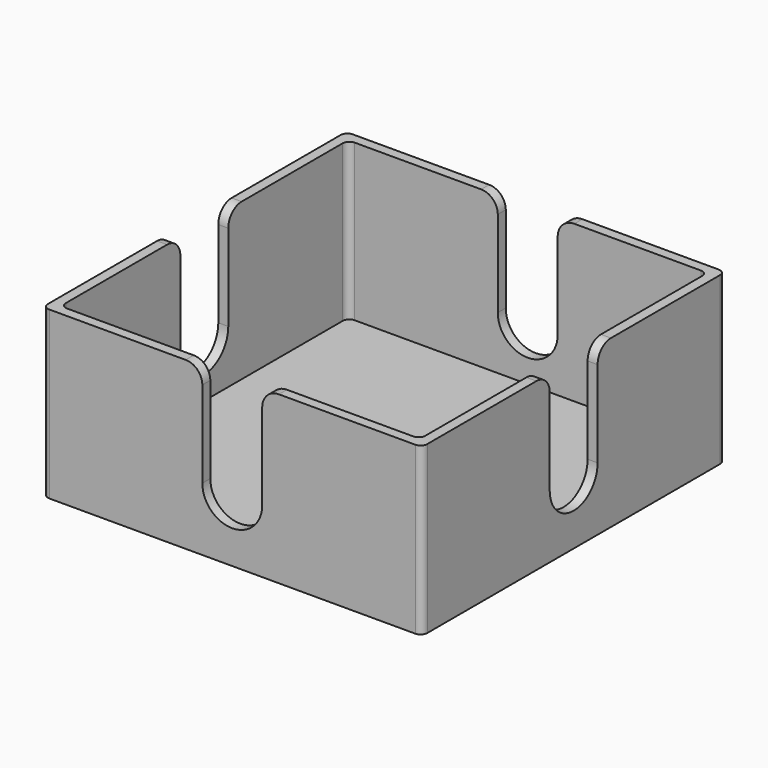
from build123d import *

# Parameters (mm, degrees)
F0_W     = 114
F0_H     = 114
F1_DEPTH = 50
F2_T     = -3
F4_DEPTH = 114.001
F6_DEPTH = 114.001
F7_R     = 5
F8_R     = 2
F9_R     = 2


with BuildPart() as f1:
    # F0 (on Top) → F1 (new body)
    with BuildSketch(Plane.XY):
        with Locations((24.0205488801, 21.5819291472)):
            Rectangle(F0_W, F0_H)
    extrude(amount=F1_DEPTH)

    # F2
    f2_openings = [f1.faces().sort_by_distance(p)[0] for p in [
        (24.020549, 21.581929, 50),
    ]]
    offset(amount=F2_T, openings=f2_openings)

    # F3 (on face) → F4 (cut, through all)
    with BuildSketch(Plane(origin=(-32.9794511199, 0, 0), x_dir=(0, -1, 0), z_dir=(-1, 0, 0))):
        with BuildLine():
            Line((-12.5819291472, 19), (-12.5819291472, 50))
            Line((-12.5819291472, 50), (-30.5819291472, 50))
            Line((-30.5819291472, 50), (-30.5819291472, 19))
            ThreePointArc((-30.5819291472, 19), (-21.5819291472, 10), (-12.5819291472, 19))
        make_face()
    extrude(amount=-F4_DEPTH, mode=Mode.SUBTRACT)

    # F5 (on face) → F6 (cut, through all)
    with BuildSketch(Plane(origin=(0, 78.5819291472, 0), x_dir=(-1, 0, 0), z_dir=(0, 1, 0))):
        with BuildLine():
            Line((-33.0205488801, 50), (-33.0205488801, 19))
            ThreePointArc((-33.0205488801, 19), (-24.0205488801, 10), (-15.0205488801, 19))
            Line((-15.0205488801, 19), (-15.0205488801, 50))
            Line((-15.0205488801, 50), (-33.0205488801, 50))
        make_face()
    extrude(amount=-F6_DEPTH, mode=Mode.SUBTRACT)

    # F7
    f7_edges = [f1.edges().sort_by_distance(p)[0] for p in [
        (15.020549, 77.081929, 50),
        (15.020549, -33.918071, 50),
        (33.020549, 77.081929, 50),
        (33.020549, -33.918071, 50),
        (79.520549, 12.581929, 50),
        (-31.479451, 12.581929, 50),
        (79.520549, 30.581929, 50),
        (-31.479451, 30.581929, 50),
    ]]
    fillet(f7_edges, radius=F7_R)

    # F8
    f8_edges = [f1.edges().sort_by_distance(p)[0] for p in [
        (81.020549, -35.418071, 25),
        (-32.979451, -35.418071, 25),
        (-32.979451, 78.581929, 25),
        (81.020549, 78.581929, 25),
    ]]
    fillet(f8_edges, radius=F8_R)

    # F9
    f9_edges = [f1.edges().sort_by_distance(p)[0] for p in [
        (-29.979451, -32.418071, 26.5),
        (-29.979451, 75.581929, 26.5),
        (78.020549, 75.581929, 26.5),
        (78.020549, -32.418071, 26.5),
    ]]
    fillet(f9_edges, radius=F9_R)


solid = f1.part
